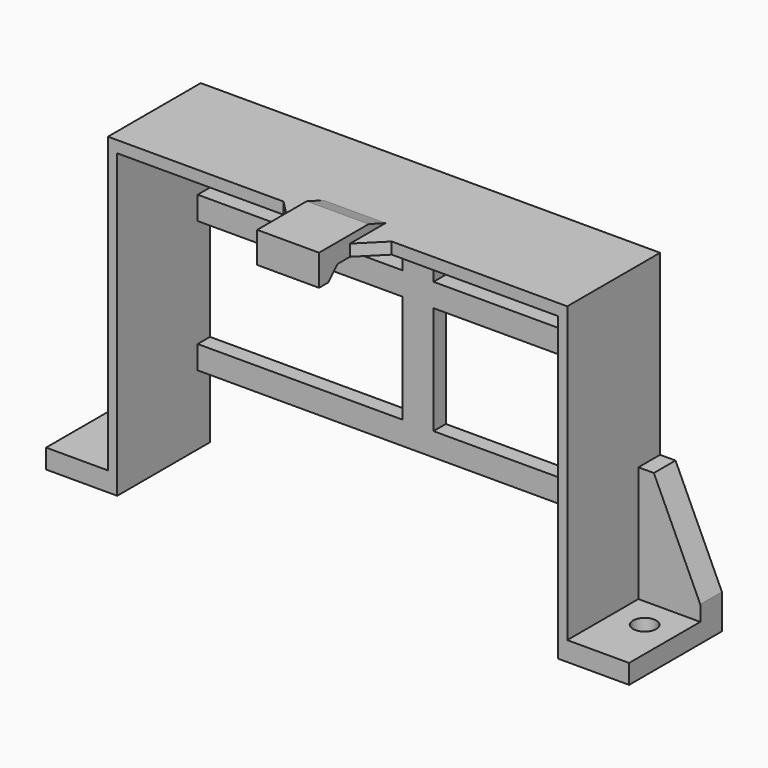
from build123d import *

# Parameters (mm, degrees)
F1_DEPTH  = 15
F3_DEPTH  = 2
F4_R      = 1.5
F5_DEPTH  = 25
F7_DEPTH  = 4
F8_SIZE   = 3
F10_DEPTH = 3.5
F11_DEPTH = 1


with BuildPart() as f1:
    # F0 (on Front) → F1 (new body)
    with BuildSketch(Plane.XZ):
        Polygon((-28.5, 38), (0, 38), (28.5, 38), (28.5, 0), (37.7, 0), (37.7, 1.5), (29.7, 1.5), (29.7, 39.5), (0, 39.5), (-29.7, 39.5), (-29.7, 1.5), (-37.7, 1.5), (-37.7, 0), (-28.5, 0), align=None)
    extrude(amount=F1_DEPTH)

    # F2 (on face) → F3 (join)
    with BuildSketch(Plane(origin=(0, 0, 0), x_dir=(-1, 0, 0), z_dir=(0, 1, 0))):
        Polygon((-28.5, 11), (-28.5, 8), (-2, 8), (2, 8), (28.5, 8), (28.5, 11), (2, 11), (2, 25), (28.5, 25), (28.5, 28), (2, 28), (2, 38), (-2, 38), (-2, 28), (-28.5, 28), (-28.5, 25), (-2, 25), (-2, 11), align=None)
    extrude(amount=-F3_DEPTH)

    # F4 (on face) → F5 (cut)
    with BuildSketch(Plane.XY.offset(1.5)):
        with Locations((-33.7, -7.5)):
            Circle(F4_R)
        with Locations((33.7, -7.5)):
            Circle(F4_R)
    extrude(amount=-F5_DEPTH, mode=Mode.SUBTRACT)

    # F6 (on Right) → F7 (join, symmetric)
    with BuildSketch(Plane.YZ):
        Polygon((-12.2525225805, 39.5), (-15, 40.5), (-23, 40.5), (-23, 38), (-23, 36.5), (-21.5, 36.5), (-20, 38), (-15, 38), (-15, 39.5), align=None)
    extrude(amount=F7_DEPTH, both=True)

    # F8
    f8_edges = [f1.edges().sort_by_distance(p)[0] for p in [
        (4, -15, 38.75),
        (-4, -15, 38.75),
    ]]
    chamfer(f8_edges, length=F8_SIZE)

    # F9 (on face) → F10 (join)
    with BuildSketch(Plane(origin=(0, 0, 0), x_dir=(-1, 0, 0), z_dir=(0, 1, 0))):
        Polygon((-29.7, 1.5), (-29.7, 16.5), (-31.7, 16.5), (-37.7, 3.5), (-37.7, 1.5), align=None)
        Polygon((29.7, 1.5), (37.7, 1.5), (37.7, 3.5), (31.7, 16.5), (29.7, 16.5), align=None)
    extrude(amount=-F10_DEPTH)

    # F11 (add): faces of the model
    f11_faces = [f1.faces().sort_by_distance(p)[0] for p in [
        (-37.5240340942, -7.5, 0),
        (28.6759659058, -7.5, 0),
    ]]
    extrude(f11_faces, amount=F11_DEPTH)


solid = f1.part
